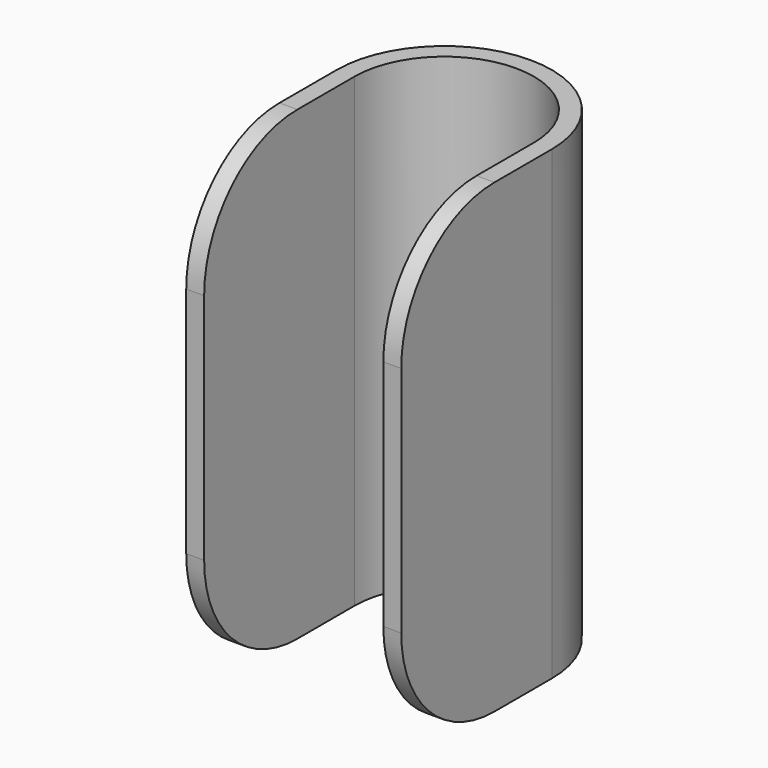
from build123d import *

# Parameters (mm, degrees)
F0_W     = 6.35
F0_H     = 66.675
F1_DEPTH = 165.1
F2_R     = 41.275


with BuildPart() as f1:
    # F0 (on Top) → F1 (new body)
    with BuildSketch(Plane.XY):
        with BuildLine():
            Line((31.75, 0), (38.1, 0))
            ThreePointArc((38.1, 0), (0, 38.1), (-38.1, 0))
            Line((-38.1, 0), (-31.75, 0))
            ThreePointArc((-31.75, 0), (0, 31.75), (31.75, 0))
        make_face()
        with Locations((-34.925, -33.3375)):
            Rectangle(F0_W, F0_H)
        with Locations((34.925, -33.3375)):
            Rectangle(F0_W, F0_H)
    extrude(amount=F1_DEPTH)

    # F2
    f2_edges = [f1.edges().sort_by_distance(p)[0] for p in [
        (-34.925, -66.675, 165.1),
        (34.925, -66.675, 165.1),
        (-34.925, -66.675, 0),
        (34.925, -66.675, 0),
    ]]
    fillet(f2_edges, radius=F2_R)


solid = f1.part
